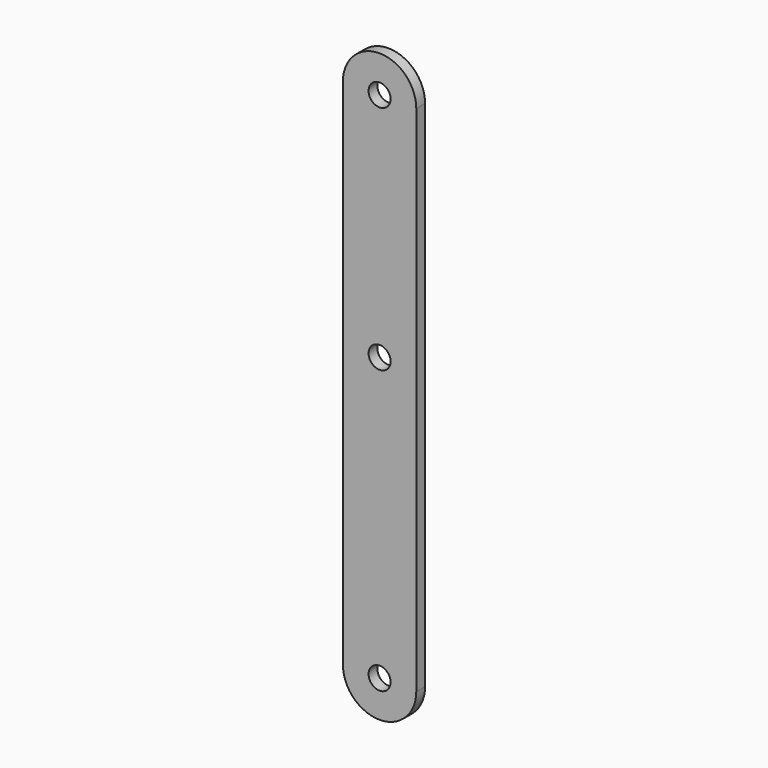
from build123d import *

# Parameters (mm, degrees)
F1_DEPTH = 3
F2_R     = 3
F3_DEPTH = 25.4
F4_R     = 3
F5_DEPTH = 25


with BuildPart() as f1:
    # F0 (on Front) → F1 (new body)
    with BuildSketch(Plane.XZ):
        with BuildLine():
            ThreePointArc((-10, 80), (0, 70), (10, 80))
            ThreePointArc((10, 80), (0, 90), (-10, 80))
        make_face()
        with BuildLine():
            Line((10, -60), (10, 80))
            ThreePointArc((10, 80), (0, 70), (-10, 80))
            Line((-10, 80), (-10, -60))
            ThreePointArc((-10, -60), (0, -50), (10, -60))
        make_face()
        with BuildLine():
            ThreePointArc((-10, -60), (0, -70), (10, -60))
            ThreePointArc((10, -60), (0, -50), (-10, -60))
        make_face()
    extrude(amount=F1_DEPTH)

    # F2 (on face) → F3 (cut)
    with BuildSketch(Plane.XZ.offset(3)):
        with Locations((0, 80)):
            Circle(F2_R)
        with Locations((0, -60)):
            Circle(F2_R)
    extrude(amount=-F3_DEPTH, mode=Mode.SUBTRACT)

    # F4 (on face) → F5 (cut)
    with BuildSketch(Plane.XZ.offset(3)):
        with Locations((0, 17)):
            Circle(F4_R)
    extrude(amount=-F5_DEPTH, mode=Mode.SUBTRACT)


solid = f1.part
